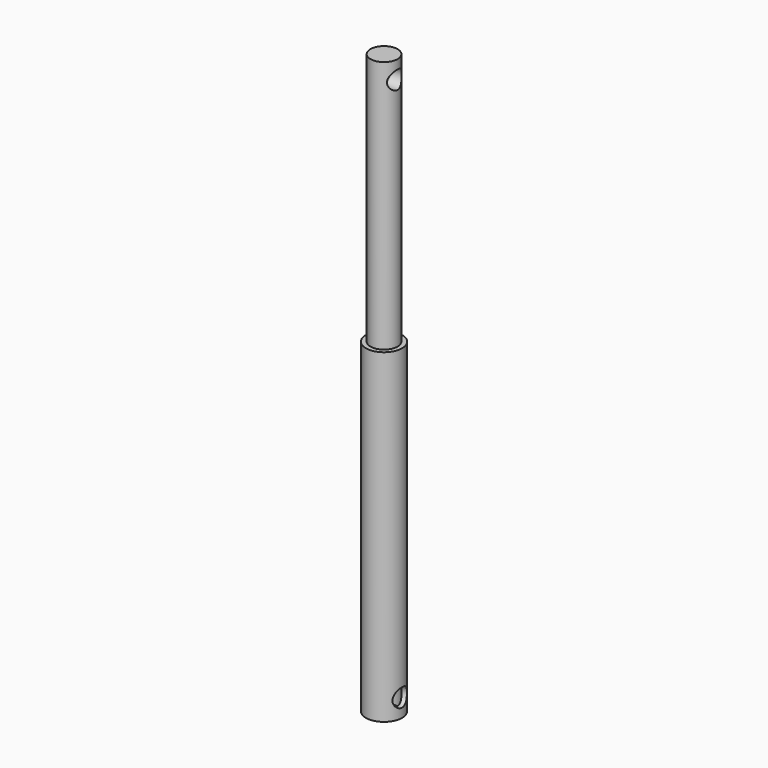
from build123d import *

# Parameters (mm, degrees)
F0_R          = 7.5
F1_DEPTH      = 140
F2_R          = 5
F3_DEPTH      = 7.5
F3_DEPTH_BACK = 7.5
F4_R          = 10
F4_R_2        = 7.5
F5_DEPTH      = 180
F6_R          = 5
F7_DEPTH      = 20
F7_DEPTH_BACK = 20


with BuildPart() as f1:
    # F0 (on Top) → F1 (new body)
    with BuildSketch(Plane.XY):
        Circle(F0_R)
    extrude(amount=F1_DEPTH)

    # F2 (on Right) → F3 (cut, two sides)
    with BuildSketch(Plane.YZ) as f3_sk:
        with Locations((0, 130)):
            Circle(F2_R)
    extrude(amount=F3_DEPTH, mode=Mode.SUBTRACT)
    extrude(f3_sk.sketch, amount=-F3_DEPTH_BACK, mode=Mode.SUBTRACT)


with BuildPart() as f5:
    # F4 (on Top) → F5 (new body)
    with BuildSketch(Plane.XY):
        Circle(F4_R)
        Circle(F4_R_2, mode=Mode.SUBTRACT)
    extrude(amount=-F5_DEPTH)

    # F6 (on Right) → F7 (cut, two sides)
    with BuildSketch(Plane.YZ) as f7_sk:
        with Locations((0, -170)):
            Circle(F6_R)
    extrude(amount=F7_DEPTH, mode=Mode.SUBTRACT)
    extrude(f7_sk.sketch, amount=-F7_DEPTH_BACK, mode=Mode.SUBTRACT)


solid = Compound([f1.part, f5.part])
